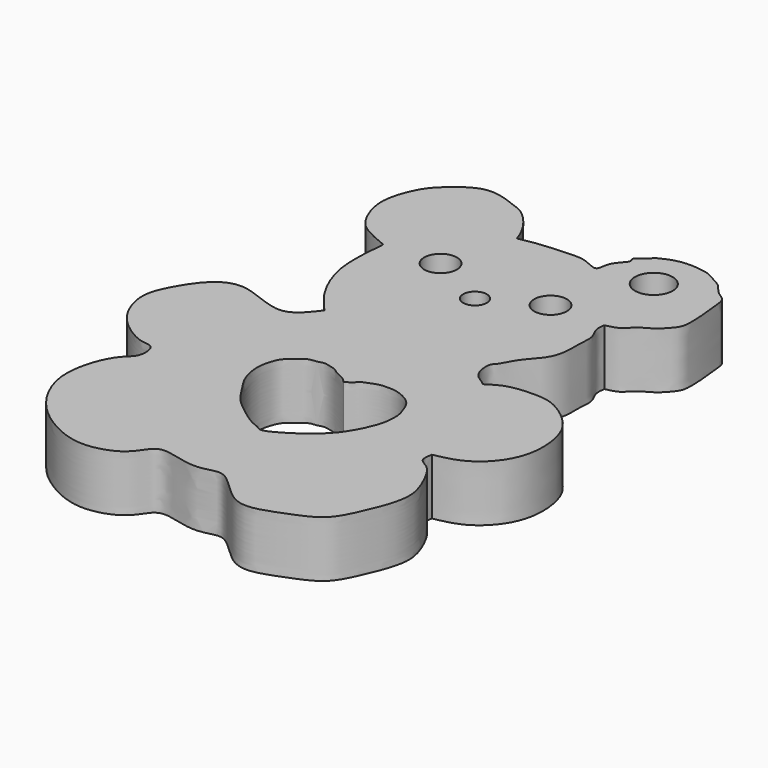
from build123d import *

# Parameters (mm, degrees)
F0_R     = 1.4562904896
F0_R_2   = 1.0499996133
F0_R_3   = 1.4569481774
F0_R_4   = 1.6734766458
F1_DEPTH = 5


with BuildPart() as f1:
    # F0 (on Top) → F1 (new body)
    with BuildSketch(Plane.XY):
        with BuildLine():
            add(Edge.make_bspline(
                [(12.4999461821, 11.3877876494), (12.8131523659, 11.4336249934), (13.5224566325, 11.6117352517), (15.2250339978, 11.8016104091), (16.9682555743, 11.8690505105), (18.2475536475, 11.9138505821), (19.8789952564, 10.8884877841), (19.7236486819, 12.4918026387), (20.4782518776, 13.1300977353), (20.7174214268, 13.4613178226)],
                knots=[0.0069294737, 0.0069294737, 0.0069294737, 0.0069294737, 0.1250748101, 0.2862271787, 0.4473849144, 0.5905694457, 0.7319168307, 0.8563738293, 1, 1, 1, 1], degree=3))
            add(Edge.make_bspline(
                [(5.8322786354, 4.5451181941), (5.8651284274, 4.890040781), (5.6965042838, 4.9267183329), (4.0175741913, 5.633272593), (2.670849384, 6.5262586121), (1.6761111798, 8.862765469), (1.677980994, 10.7767290339), (2.5993687752, 13.1675129186), (3.844497364, 14.3966996231), (6.2372217266, 16.303269178), (8.9968806632, 15.221781115), (10.5040619137, 14.7681166949), (12.153009855, 12.6707497851), (12.4999461821, 11.3877876494)],
                knots=[0, 0, 0, 0, 0.0431629915, 0.1251263443, 0.2087894266, 0.3073443985, 0.3969103754, 0.4962359716, 0.5824309395, 0.6894509979, 0.7938596782, 0.8752207082, 1, 1, 1, 1], degree=3))
            add(Edge.make_bspline(
                [(8.8307475671, -5.4124360904), (8.283340673, -4.7854794132), (7.2165111063, -3.5636477615), (6.2893041208, -1.6773703896), (5.5460557533, 0.5785318011), (5.658674065, 3.2203944849), (5.8322786354, 4.5451181941)],
                knots=[0, 0, 0, 0, 0.2403984831, 0.459391206, 0.693711252, 1, 1, 1, 1], degree=3))
            add(Edge.make_bspline(
                [(28.2163862139, -17.6897700876), (28.145538598, -18.0692555232), (28.0044198444, -18.8251388136), (29.1366846145, -19.2302780663), (29.9542671765, -20.5259692572), (30.6537156718, -22.0925529988), (31.1049951176, -24.0773057201), (29.6428973112, -27.6528324069), (28.447442083, -29.9694779553), (25.4217658887, -31.0729633614), (21.8342031345, -32.5315021412), (19.072303982, -28.6075573494), (17.4136328646, -29.2255059245), (15.6877791374, -29.4439661337), (12.804733876, -28.3276605892), (11.9345630587, -30.0452322709), (10.7663853334, -31.1375638734), (7.8820494308, -31.9457117308), (4.5588656855, -30.4839645979), (1.9764102611, -28.1962124854), (0.119272304, -24.1301779129), (1.744401108, -19.6950901939), (3.2207118496, -18.9335977236), (3.0354713175, -16.9271589937), (1.7965168968, -17.1111304742), (-0.1376474348, -16.0263040982), (-1.7757035216, -14.358958849), (-2.7395697195, -11.4780683637), (-1.5923262912, -9.0589146992), (-0.1556783745, -6.8524121646), (2.3689694543, -5.5557782383), (6.6509684785, -8.2547814052), (8.1466567388, -6.3044633471), (8.8307475671, -5.4124360904)],
                knots=[0, 0, 0, 0, 0.0209519449, 0.041726538, 0.0673047243, 0.0944438498, 0.1236319656, 0.1641200869, 0.1973624807, 0.2340829853, 0.272819436, 0.3143946865, 0.3391867475, 0.3670585738, 0.401367122, 0.4271100149, 0.4532437892, 0.4879790973, 0.5269522908, 0.565488023, 0.608721495, 0.6520242414, 0.6777694952, 0.7029202691, 0.7234255824, 0.7538574689, 0.7860989456, 0.8210128394, 0.8544547924, 0.8879512682, 0.9208469179, 0.9637914393, 1, 1, 1, 1], degree=3))
            add(Edge.make_bspline(
                [(24.3473183364, -7.2036082856), (24.7978905518, -6.9140859838), (25.7401954824, -6.3085930503), (27.7123073086, -6.1279485782), (29.7698121819, -6.1686967941), (31.9513438638, -7.7101240236), (33.3408016608, -9.5110780223), (33.7498102507, -12.8187020976), (32.6722882475, -15.4291732838), (30.6062346262, -17.2156670939), (29.0028341496, -17.5337529449), (28.2163862139, -17.6897700876)],
                knots=[0, 0, 0, 0, 0.0923240483, 0.1930820476, 0.2965249177, 0.4120970504, 0.5211073033, 0.6501616403, 0.770963041, 0.8876602282, 1, 1, 1, 1], degree=3))
            add(Edge.make_bspline(
                [(25.4049970193, 4.9877377171), (25.3639214808, 4.7437058621), (25.2774174318, 3.9877690224), (25.994956527, 3.1409612248), (25.764977736, 1.6384078338), (25.8720399176, 0.6845189782), (25.5916604982, -1.2135300546), (23.9898390549, -2.5976401474), (23.2800995509, -4.2838275487), (22.7672135157, -4.5413191856), (22.9550871288, -6.5360455975), (24.0139384089, -6.8613631913), (24.3473183364, -7.2036082856)],
                knots=[0, 0, 0, 0, 0.08344871, 0.1732027601, 0.2764624163, 0.3635619566, 0.478946451, 0.6077998672, 0.7211403628, 0.78210877, 0.89368887, 1, 1, 1, 1], degree=3))
            add(Edge.make_bspline(
                [(21.8301658301, 15.0903765152), (22.1385509516, 15.2212262785), (22.6093921771, 15.5218160089), (23.8607104641, 15.8308003218), (24.9274461894, 15.7911173388), (26.146377383, 15.6422950216), (26.8944349391, 15.1304356751), (27.8632728369, 14.7181628813), (28.4763426223, 13.6843183727), (29.5234109265, 13.2321915122), (29.5754323164, 12.0471640063), (29.7706168343, 10.5415578737), (29.8316406574, 9.4294435245), (29.8226513733, 8.2688492202), (29.2779370184, 7.5699003809), (28.4592686138, 6.7081614709), (27.422242384, 6.2912726655), (26.5305204778, 5.1779303309), (25.8173116341, 5.1059046315), (25.4049970193, 4.9877377171)],
                knots=[0, 0, 0, 0, 0.0531868833, 0.1150044381, 0.1738278429, 0.2345512698, 0.2874494859, 0.3436150404, 0.4040652927, 0.4601834837, 0.5181367984, 0.587480935, 0.6474965028, 0.7057075441, 0.7574838951, 0.8174137992, 0.8767376317, 0.9407499319, 1, 1, 1, 1], degree=3))
            add(Edge.make_bspline(
                [(20.7174214268, 13.4613178226), (20.9310384505, 13.7290709818), (20.228905104, 14.0011076285), (21.5839593833, 14.6880382011), (21.8301658301, 15.0903765152)],
                knots=[0, 0, 0, 0, 0.3643209516, 1, 1, 1, 1], degree=3))
        make_face()
        with BuildLine():
            add(Edge.make_bspline(
                [(13.2113462314, -11.7404833436), (13.059545028, -11.7692797277), (12.7698634703, -11.7525797298), (12.264102392, -11.9646071508), (11.9298861053, -12.3621738515), (11.078202023, -12.8877292556), (10.735862983, -13.7755577919), (10.5121754932, -14.6922599053), (10.5601008323, -15.7457358523), (10.9125110535, -16.9150532313), (11.3714829892, -17.6631163089), (11.9328104847, -18.5607992041), (12.7695250765, -19.7643240378), (13.8633324343, -20.5939030528), (15.2556863177, -21.6969393915), (16.1773270336, -21.9517022301), (16.6003121909, -22.3632464205), (17.9991404468, -21.6398951779), (19.0047127109, -20.9928644373), (20.3374901363, -19.948410731), (21.2873615307, -18.8946111491), (22.19478095, -17.2903074332), (22.7068784802, -15.8003530842), (22.7197309189, -14.4481467088), (22.477958562, -13.7808924466), (22.0426371655, -12.4432621073), (20.4168992322, -11.7359268401), (19.7273828064, -11.7006041101), (18.7452206528, -11.7009567306), (18.0256491007, -12.0643970123), (17.3612336913, -12.2368935247), (17.1340469907, -12.7967391739), (16.7393681318, -12.790399594), (16.6357700595, -13.0994523853), (16.2466044681, -12.5106034265), (15.2992091124, -12.2238850053), (14.9782180274, -11.8487376917), (14.2454777285, -11.6718073806), (13.7368406289, -11.5579726463), (13.3773508918, -11.7089925922), (13.2113462314, -11.7404833436)],
                knots=[0, 0, 0, 0, 0.0183808558, 0.0379916645, 0.0579067435, 0.0848975118, 0.1115271171, 0.1381012664, 0.1664390891, 0.1966856895, 0.2223674781, 0.2506066168, 0.2836306697, 0.3165468318, 0.3532862362, 0.3796388018, 0.3985597137, 0.4311934246, 0.4628807182, 0.4980521064, 0.5312019808, 0.5683360309, 0.6034628626, 0.6345103229, 0.657661341, 0.6894307845, 0.7249616559, 0.7483104876, 0.7748939509, 0.7998842038, 0.8221134548, 0.8421198563, 0.8580303214, 0.8695610858, 0.8895674894, 0.9172693295, 0.936547004, 0.9598413821, 0.979899318, 1, 1, 1, 1], degree=3))
        make_face(mode=Mode.SUBTRACT)
        with Locations((10.7230376452, 5.1394249313)):
            Circle(F0_R, mode=Mode.SUBTRACT)
        with Locations((15.8855374902, 2.5144242682)):
            Circle(F0_R_2, mode=Mode.SUBTRACT)
        with Locations((20.61053738, 5.0081750378)):
            Circle(F0_R_3, mode=Mode.SUBTRACT)
        with Locations((24.2061465979, 11.992989108)):
            Circle(F0_R_4, mode=Mode.SUBTRACT)
    extrude(amount=F1_DEPTH)


solid = f1.part
